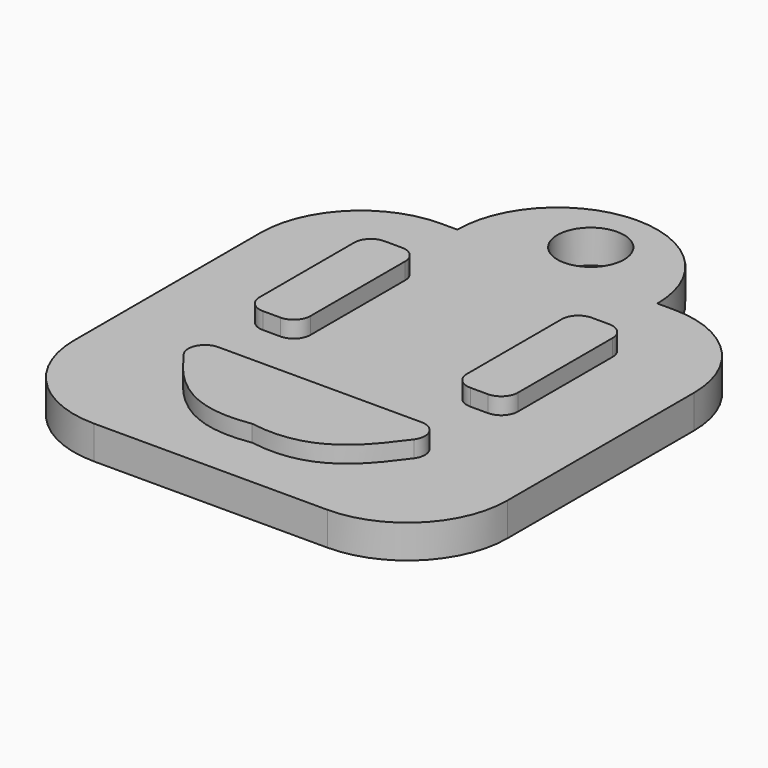
from build123d import *

# Parameters (mm, degrees)
F0_R     = 1
F1_DEPTH = 1
F2_R     = 3
F3_W     = 1.5266574919
F3_H     = 4.5481626876
F4_DEPTH = 0.5
F5_R     = 0.5


with BuildPart() as f1:
    # F0 (on Top) → F1 (new body)
    with BuildSketch(Plane.XY):
        with BuildLine():
            ThreePointArc((-35.1311429143, -3.4115522057), (-32.1311429143, -6.4115522057), (-29.1311429143, -3.4115522057))
            Line((-29.1311429143, -3.4115522057), (-35.1311429143, -3.4115522057))
        make_face()
        with BuildLine():
            Line((-35.1311429143, -3.4115522057), (-29.1311429143, -3.4115522057))
            ThreePointArc((-29.1311429143, -3.4115522057), (-32.1311429143, -0.4115522057), (-35.1311429143, -3.4115522057))
        make_face()
        with Locations((-32.1311429143, -2.1592592821)):
            Circle(F0_R, mode=Mode.SUBTRACT)
        with BuildLine():
            Line((-25.6311429143, -3.4115522057), (-29.1311429143, -3.4115522057))
            ThreePointArc((-29.1311429143, -3.4115522057), (-32.1311429143, -6.4115522057), (-35.1311429143, -3.4115522057))
            Line((-35.1311429143, -3.4115522057), (-38.6311429143, -3.4115522057))
            Line((-38.6311429143, -3.4115522057), (-38.6311429143, -16.4115522057))
            Line((-38.6311429143, -16.4115522057), (-25.6311429143, -16.4115522057))
            Line((-25.6311429143, -16.4115522057), (-25.6311429143, -3.4115522057))
        make_face()
    extrude(amount=F1_DEPTH)

    # F2
    f2_edges = [f1.edges().sort_by_distance(p)[0] for p in [
        (-25.631143, -3.411552, 0.5),
        (-25.631143, -16.411552, 0.5),
        (-38.631143, -3.411552, 0.5),
        (-38.631143, -16.411552, 0.5),
    ]]
    fillet(f2_edges, radius=F2_R)

    # F3 (on face) → F4 (join)
    with BuildSketch(Plane.XY.offset(1)):
        with Locations((-35.2431219071, -7.959790295)):
            Rectangle(F3_W, F3_H)
        with Locations((-29.0191639215, -7.959790295)):
            Rectangle(F3_W, F3_H)
        with BuildLine():
            Line((-28.0351451192, -12.3141705765), (-32.1311429143, -12.3141705765))
            Line((-32.1311429143, -12.3141705765), (-32.1311429143, -14.8540753871))
            add(Edge.make_bspline(
                [(-28.0351451192, -12.3141705765), (-28.9659189681, -13.232003587), (-29.6096801758, -15.267544426), (-32.1311429143, -14.8540753871)],
                knots=[0, 0, 0, 0, 4.8195761623, 4.8195761623, 4.8195761623, 4.8195761623], degree=3))
        make_face()
        with BuildLine():
            Line((-32.1311429143, -12.3141705765), (-36.2271407093, -12.3141705765))
            add(Edge.make_bspline(
                [(-36.2271407093, -12.3141705765), (-35.2963668605, -13.232003587), (-34.6526056528, -15.267544426), (-32.1311429143, -14.8540753871)],
                knots=[0, 0, 0, 0, 4.8195761623, 4.8195761623, 4.8195761623, 4.8195761623], degree=3))
            Line((-32.1311429143, -14.8540753871), (-32.1311429143, -12.3141705765))
        make_face()
    extrude(amount=F4_DEPTH)

    # F5
    f5_edges = [f1.edges().sort_by_distance(p)[0] for p in [
        (-36.006451, -5.685709, 1.25),
        (-34.479793, -5.685709, 1.25),
        (-34.479793, -10.233872, 1.25),
        (-36.006451, -10.233872, 1.25),
        (-28.255835, -5.685709, 1.25),
        (-28.255835, -10.233872, 1.25),
        (-29.782493, -5.685709, 1.25),
        (-29.782493, -10.233872, 1.25),
        (-36.227141, -12.314171, 1.25),
        (-28.035145, -12.314171, 1.25),
    ]]
    fillet(f5_edges, radius=F5_R)


solid = f1.part
